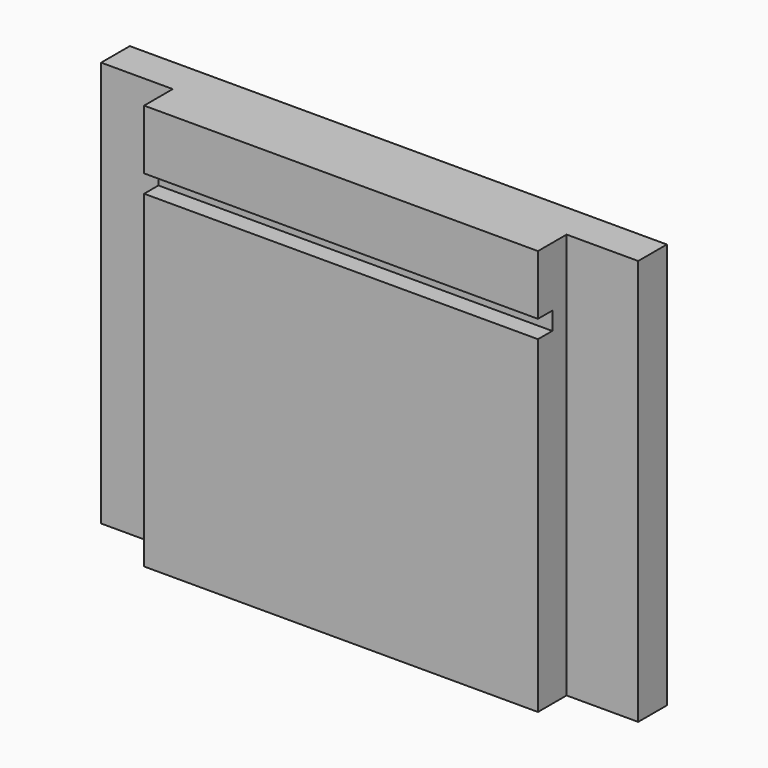
from build123d import *

# Parameters (mm, degrees)
F0_W      = 40
F0_H      = 68
F1_DEPTH  = 12
F2_W      = 5
F2_H      = 3
F3_DEPTH  = 59
F5_W      = 90
F5_H      = 68
F6_DEPTH  = 12
F7_W      = 3
F7_H      = 3
F8_DEPTH  = 200
F9_W      = 12
F9_H      = 68.2744067311
F9_H_2    = 68.7110256553
F10_DEPTH = 6


with BuildPart() as f1:
    # F0 (on Front) → F1 (new body)
    with BuildSketch(Plane.XZ):
        Rectangle(F0_W, F0_H)
    extrude(amount=F1_DEPTH)

    # F2 (on face) → F3 (cut)
    with BuildSketch(Plane.YZ.offset(20)):
        with Locations((-9.5, 22.5)):
            Rectangle(F2_W, F2_H)
    extrude(amount=-F3_DEPTH, mode=Mode.SUBTRACT)


with BuildPart() as f6:
    # F5 (on Front) → F6 (new body)
    with BuildSketch(Plane.XZ):
        Rectangle(F5_W, F5_H)
    extrude(amount=F6_DEPTH)

    # F7 (on face) → F8 (cut)
    with BuildSketch(Plane(origin=(-45, 0, 0), x_dir=(0, -1, 0), z_dir=(-1, 0, 0))):
        with Locations((10.5, 22.5)):
            Rectangle(F7_W, F7_H)
    extrude(amount=-F8_DEPTH, mode=Mode.SUBTRACT)

    # F9 (on face) → F10 (cut)
    with BuildSketch(Plane.XZ.offset(12)):
        with Locations((-39, 0.1372033656)):
            Rectangle(F9_W, F9_H)
        with Locations((39, 0.3555128276)):
            Rectangle(F9_W, F9_H_2)
    extrude(amount=-F10_DEPTH, mode=Mode.SUBTRACT)


solid = f6.part
